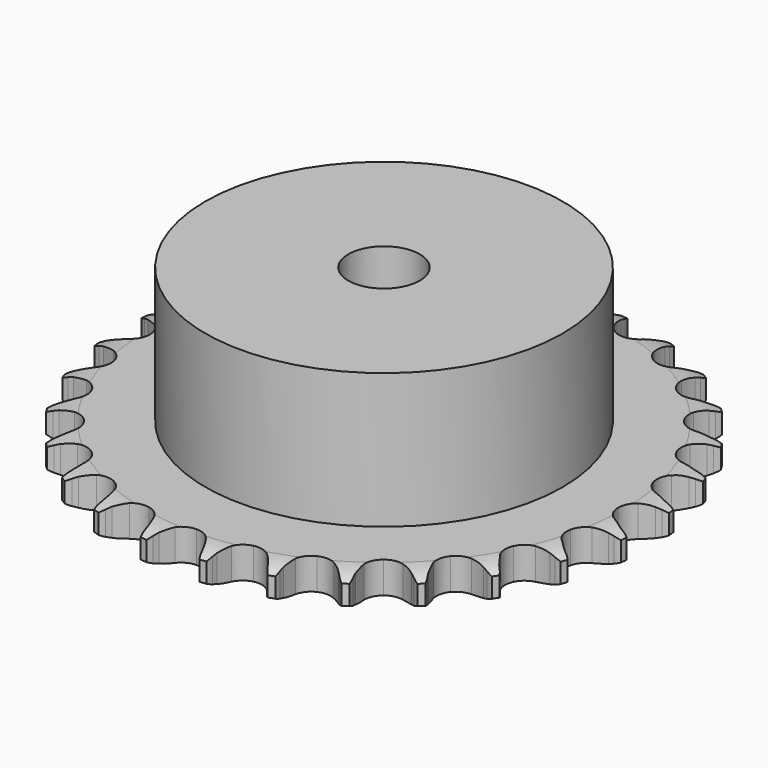
from build123d import *

# Parameters (mm, degrees)
PAD_DEPTH         = 5.3
SKETCH001_R       = 30
PAD001_DEPTH      = 28
SKETCH002_R       = 6
POCKET_DEPTH      = 0.001
POCKET_DEPTH_BACK = 28.001


with BuildPart() as part:
    # Sprocket → Pad (new body)
    with BuildSketch(Plane.XY):
        with BuildLine():
            ThreePointArc((-5.081632, 45.100731), (-4.462733, 44.305911), (-4.009624, 43.406207))
            Line((-4.009624, 43.406207), (-3.700215, 42.606137))
            ThreePointArc((-3.700215, 42.606137), (-3.207694, 41.556761), (-2.573921, 40.586143))
            ThreePointArc((-2.573921, 40.586143), (-1.437158, 39.644298), (0, 39.306838))
            ThreePointArc((0, 39.306838), (1.437158, 39.644298), (2.573921, 40.586143))
            ThreePointArc((2.573921, 40.586143), (3.207694, 41.556761), (3.700215, 42.606137))
            Line((3.700215, 42.606137), (4.009624, 43.406207))
            ThreePointArc((4.009624, 43.406207), (4.462733, 44.305911), (5.081632, 45.100731))
            ThreePointArc((5.081632, 45.100731), (5.508149, 44.188121), (5.749696, 43.210148))
            Line((5.749696, 43.210148), (5.873315, 42.361288))
            ThreePointArc((5.873315, 42.361288), (6.119979, 41.228626), (6.521879, 40.141315))
            ThreePointArc((6.521879, 40.141315), (7.420561, 38.970131), (8.746594, 38.321333))
            ThreePointArc((8.746594, 38.321333), (10.222812, 38.330535), (11.540654, 38.995813))
            Line((11.540654, 38.995813), (13.0882, 40.714537))
            ThreePointArc((13.0882, 40.714537), (13.318858, 41.076312), (13.567884, 41.425697))
            ThreePointArc((13.567884, 41.425697), (14.209836, 42.202017), (14.990082, 42.839192))
            ThreePointArc((14.990082, 42.839192), (15.20283, 41.854554), (15.220701, 40.847352))
            Line((15.220701, 40.847352), (15.152332, 39.992266))
            ThreePointArc((15.152332, 39.992266), (15.140771, 38.833114), (15.290645, 37.683634))
            ThreePointArc((15.290645, 37.683634), (15.906182, 36.341838), (17.054598, 35.414237))
            ThreePointArc((17.054598, 35.414237), (18.495851, 35.094719), (19.92869, 35.450069))
            Line((19.92869, 35.450069), (21.819889, 36.78134))
            ThreePointArc((21.819889, 36.78134), (22.125266, 37.082718), (22.445794, 37.36793))
            ThreePointArc((22.445794, 37.36793), (23.244398, 37.981939), (24.146866, 38.429517))
            ThreePointArc((24.146866, 38.429517), (24.135178, 37.422225), (23.928477, 36.436299))
            Line((23.928477, 36.436299), (23.671548, 35.617866))
            ThreePointArc((23.671548, 35.617866), (23.402341, 34.490349), (23.292674, 33.336338))
            ThreePointArc((23.292674, 33.336338), (23.5942, 31.891214), (24.507413, 30.731323))
            ThreePointArc((24.507413, 30.731323), (25.841431, 30.099107), (27.317419, 30.126711))
            Line((27.317419, 30.126711), (29.457437, 31.003773))
            ThreePointArc((29.457437, 31.003773), (29.822221, 31.229642), (30.198177, 31.43638))
            ThreePointArc((30.198177, 31.43638), (31.113389, 31.857287), (32.092826, 32.092826))
            ThreePointArc((32.092826, 32.092826), (31.857287, 31.113389), (31.43638, 30.198177))
            Line((31.43638, 30.198177), (31.003773, 29.457437))
            ThreePointArc((31.003773, 29.457437), (30.49042, 28.418093), (30.126711, 27.317419))
            ThreePointArc((30.126711, 27.317419), (30.099107, 25.841431), (30.731323, 24.507413))
            ThreePointArc((30.731323, 24.507413), (31.891214, 23.5942), (33.336338, 23.292674))
            Line((33.336338, 23.292674), (35.617866, 23.671548))
            ThreePointArc((35.617866, 23.671548), (36.023764, 23.810581), (36.436299, 23.928477))
            ThreePointArc((36.436299, 23.928477), (37.422225, 24.135178), (38.429517, 24.146866))
            ThreePointArc((38.429517, 24.146866), (37.981939, 23.244398), (37.36793, 22.445794))
            Line((37.36793, 22.445794), (36.78134, 21.819889))
            ThreePointArc((36.78134, 21.819889), (36.049582, 20.920835), (35.450069, 19.92869))
            ThreePointArc((35.450069, 19.92869), (35.094719, 18.495851), (35.414237, 17.054598))
            ThreePointArc((35.414237, 17.054598), (36.341838, 15.906182), (37.683634, 15.290645))
            Line((37.683634, 15.290645), (39.992266, 15.152332))
            ThreePointArc((39.992266, 15.152332), (40.418926, 15.197559), (40.847352, 15.220701))
            ThreePointArc((40.847352, 15.220701), (41.854554, 15.20283), (42.839192, 14.990082))
            ThreePointArc((42.839192, 14.990082), (42.202017, 14.209836), (41.425697, 13.567884))
            Line((41.425697, 13.567884), (40.714537, 13.0882))
            ThreePointArc((40.714537, 13.0882), (39.801067, 12.37452), (38.995813, 11.540654))
            ThreePointArc((38.995813, 11.540654), (38.330535, 10.222812), (38.321333, 8.746594))
            ThreePointArc((38.321333, 8.746594), (38.970131, 7.420561), (40.141315, 6.521879))
            Line((40.141315, 6.521879), (42.361288, 5.873315))
            ThreePointArc((42.361288, 5.873315), (42.787314, 5.822467), (43.210148, 5.749696))
            ThreePointArc((43.210148, 5.749696), (44.188121, 5.508149), (45.100731, 5.081632))
            ThreePointArc((45.100731, 5.081632), (44.305911, 4.462733), (43.406207, 4.009624))
            Line((43.406207, 4.009624), (42.606137, 3.700215))
            ThreePointArc((42.606137, 3.700215), (41.556761, 3.207694), (40.586143, 2.573921))
            ThreePointArc((40.586143, 2.573921), (39.644298, 1.437158), (39.306838, 0))
            ThreePointArc((39.306838, 0), (39.644298, -1.437158), (40.586143, -2.573921))
            Line((40.586143, -2.573921), (42.606137, -3.700215))
            ThreePointArc((42.606137, -3.700215), (43.010168, -3.844588), (43.406207, -4.009624))
            ThreePointArc((43.406207, -4.009624), (44.305911, -4.462733), (45.100731, -5.081632))
            ThreePointArc((45.100731, -5.081632), (44.188121, -5.508149), (43.210148, -5.749696))
            Line((43.210148, -5.749696), (42.361288, -5.873315))
            ThreePointArc((42.361288, -5.873315), (41.228626, -6.119979), (40.141315, -6.521879))
            ThreePointArc((40.141315, -6.521879), (38.970131, -7.420561), (38.321333, -8.746594))
            ThreePointArc((38.321333, -8.746594), (38.330535, -10.222812), (38.995813, -11.540654))
            Line((38.995813, -11.540654), (40.714537, -13.0882))
            ThreePointArc((40.714537, -13.0882), (41.076312, -13.318858), (41.425697, -13.567884))
            ThreePointArc((41.425697, -13.567884), (42.202017, -14.209836), (42.839192, -14.990082))
            ThreePointArc((42.839192, -14.990082), (41.854554, -15.20283), (40.847352, -15.220701))
            Line((40.847352, -15.220701), (39.992266, -15.152332))
            ThreePointArc((39.992266, -15.152332), (38.833114, -15.140771), (37.683634, -15.290645))
            ThreePointArc((37.683634, -15.290645), (36.341838, -15.906182), (35.414237, -17.054598))
            ThreePointArc((35.414237, -17.054598), (35.094719, -18.495851), (35.450069, -19.92869))
            Line((35.450069, -19.92869), (36.78134, -21.819889))
            ThreePointArc((36.78134, -21.819889), (37.082718, -22.125266), (37.36793, -22.445794))
            ThreePointArc((37.36793, -22.445794), (37.981939, -23.244398), (38.429517, -24.146866))
            ThreePointArc((38.429517, -24.146866), (37.422225, -24.135178), (36.436299, -23.928477))
            Line((36.436299, -23.928477), (35.617866, -23.671548))
            ThreePointArc((35.617866, -23.671548), (34.490349, -23.402341), (33.336338, -23.292674))
            ThreePointArc((33.336338, -23.292674), (31.891214, -23.5942), (30.731323, -24.507413))
            ThreePointArc((30.731323, -24.507413), (30.099107, -25.841431), (30.126711, -27.317419))
            Line((30.126711, -27.317419), (31.003773, -29.457437))
            ThreePointArc((31.003773, -29.457437), (31.229642, -29.822221), (31.43638, -30.198177))
            ThreePointArc((31.43638, -30.198177), (31.857287, -31.113389), (32.092826, -32.092826))
            ThreePointArc((32.092826, -32.092826), (31.113389, -31.857287), (30.198177, -31.43638))
            Line((30.198177, -31.43638), (29.457437, -31.003773))
            ThreePointArc((29.457437, -31.003773), (28.418093, -30.49042), (27.317419, -30.126711))
            ThreePointArc((27.317419, -30.126711), (25.841431, -30.099107), (24.507413, -30.731323))
            ThreePointArc((24.507413, -30.731323), (23.5942, -31.891214), (23.292674, -33.336338))
            Line((23.292674, -33.336338), (23.671548, -35.617866))
            ThreePointArc((23.671548, -35.617866), (23.810581, -36.023764), (23.928477, -36.436299))
            ThreePointArc((23.928477, -36.436299), (24.135178, -37.422225), (24.146866, -38.429517))
            ThreePointArc((24.146866, -38.429517), (23.244398, -37.981939), (22.445794, -37.36793))
            Line((22.445794, -37.36793), (21.819889, -36.78134))
            ThreePointArc((21.819889, -36.78134), (20.920835, -36.049582), (19.92869, -35.450069))
            ThreePointArc((19.92869, -35.450069), (18.495851, -35.094719), (17.054598, -35.414237))
            ThreePointArc((17.054598, -35.414237), (15.906182, -36.341838), (15.290645, -37.683634))
            Line((15.290645, -37.683634), (15.152332, -39.992266))
            ThreePointArc((15.152332, -39.992266), (15.197559, -40.418926), (15.220701, -40.847352))
            ThreePointArc((15.220701, -40.847352), (15.20283, -41.854554), (14.990082, -42.839192))
            ThreePointArc((14.990082, -42.839192), (14.209836, -42.202017), (13.567884, -41.425697))
            Line((13.567884, -41.425697), (13.0882, -40.714537))
            ThreePointArc((13.0882, -40.714537), (12.37452, -39.801067), (11.540654, -38.995813))
            ThreePointArc((11.540654, -38.995813), (10.222812, -38.330535), (8.746594, -38.321333))
            ThreePointArc((8.746594, -38.321333), (7.420561, -38.970131), (6.521879, -40.141315))
            Line((6.521879, -40.141315), (5.873315, -42.361288))
            ThreePointArc((5.873315, -42.361288), (5.822467, -42.787314), (5.749696, -43.210148))
            ThreePointArc((5.749696, -43.210148), (5.508149, -44.188121), (5.081632, -45.100731))
            ThreePointArc((5.081632, -45.100731), (4.462733, -44.305911), (4.009624, -43.406207))
            Line((4.009624, -43.406207), (3.700215, -42.606137))
            ThreePointArc((3.700215, -42.606137), (3.207694, -41.556761), (2.573921, -40.586143))
            ThreePointArc((2.573921, -40.586143), (1.437158, -39.644298), (0, -39.306838))
            ThreePointArc((0, -39.306838), (-1.437158, -39.644298), (-2.573921, -40.586143))
            Line((-2.573921, -40.586143), (-3.700215, -42.606137))
            ThreePointArc((-3.700215, -42.606137), (-3.844588, -43.010168), (-4.009624, -43.406207))
            ThreePointArc((-4.009624, -43.406207), (-4.462733, -44.305911), (-5.081632, -45.100731))
            ThreePointArc((-5.081632, -45.100731), (-5.508149, -44.188121), (-5.749696, -43.210148))
            Line((-5.749696, -43.210148), (-5.873315, -42.361288))
            ThreePointArc((-5.873315, -42.361288), (-6.119979, -41.228626), (-6.521879, -40.141315))
            ThreePointArc((-6.521879, -40.141315), (-7.420561, -38.970131), (-8.746594, -38.321333))
            ThreePointArc((-8.746594, -38.321333), (-10.222812, -38.330535), (-11.540654, -38.995813))
            Line((-11.540654, -38.995813), (-13.0882, -40.714537))
            ThreePointArc((-13.0882, -40.714537), (-13.318858, -41.076312), (-13.567884, -41.425697))
            ThreePointArc((-13.567884, -41.425697), (-14.209836, -42.202017), (-14.990082, -42.839192))
            ThreePointArc((-14.990082, -42.839192), (-15.20283, -41.854554), (-15.220701, -40.847352))
            Line((-15.220701, -40.847352), (-15.152332, -39.992266))
            ThreePointArc((-15.152332, -39.992266), (-15.140771, -38.833114), (-15.290645, -37.683634))
            ThreePointArc((-15.290645, -37.683634), (-15.906182, -36.341838), (-17.054598, -35.414237))
            ThreePointArc((-17.054598, -35.414237), (-18.495851, -35.094719), (-19.92869, -35.450069))
            Line((-19.92869, -35.450069), (-21.819889, -36.78134))
            ThreePointArc((-21.819889, -36.78134), (-22.125266, -37.082718), (-22.445794, -37.36793))
            ThreePointArc((-22.445794, -37.36793), (-23.244398, -37.981939), (-24.146866, -38.429517))
            ThreePointArc((-24.146866, -38.429517), (-24.135178, -37.422225), (-23.928477, -36.436299))
            Line((-23.928477, -36.436299), (-23.671548, -35.617866))
            ThreePointArc((-23.671548, -35.617866), (-23.402341, -34.490349), (-23.292674, -33.336338))
            ThreePointArc((-23.292674, -33.336338), (-23.5942, -31.891214), (-24.507413, -30.731323))
            ThreePointArc((-24.507413, -30.731323), (-25.841431, -30.099107), (-27.317419, -30.126711))
            Line((-27.317419, -30.126711), (-29.457437, -31.003773))
            ThreePointArc((-29.457437, -31.003773), (-29.822221, -31.229642), (-30.198177, -31.43638))
            ThreePointArc((-30.198177, -31.43638), (-31.113389, -31.857287), (-32.092826, -32.092826))
            ThreePointArc((-32.092826, -32.092826), (-31.857287, -31.113389), (-31.43638, -30.198177))
            Line((-31.43638, -30.198177), (-31.003773, -29.457437))
            ThreePointArc((-31.003773, -29.457437), (-30.49042, -28.418093), (-30.126711, -27.317419))
            ThreePointArc((-30.126711, -27.317419), (-30.099107, -25.841431), (-30.731323, -24.507413))
            ThreePointArc((-30.731323, -24.507413), (-31.891214, -23.5942), (-33.336338, -23.292674))
            Line((-33.336338, -23.292674), (-35.617866, -23.671548))
            ThreePointArc((-35.617866, -23.671548), (-36.023764, -23.810581), (-36.436299, -23.928477))
            ThreePointArc((-36.436299, -23.928477), (-37.422225, -24.135178), (-38.429517, -24.146866))
            ThreePointArc((-38.429517, -24.146866), (-37.981939, -23.244398), (-37.36793, -22.445794))
            Line((-37.36793, -22.445794), (-36.78134, -21.819889))
            ThreePointArc((-36.78134, -21.819889), (-36.049582, -20.920835), (-35.450069, -19.92869))
            ThreePointArc((-35.450069, -19.92869), (-35.094719, -18.495851), (-35.414237, -17.054598))
            ThreePointArc((-35.414237, -17.054598), (-36.341838, -15.906182), (-37.683634, -15.290645))
            Line((-37.683634, -15.290645), (-39.992266, -15.152332))
            ThreePointArc((-39.992266, -15.152332), (-40.418926, -15.197559), (-40.847352, -15.220701))
            ThreePointArc((-40.847352, -15.220701), (-41.854554, -15.20283), (-42.839192, -14.990082))
            ThreePointArc((-42.839192, -14.990082), (-42.202017, -14.209836), (-41.425697, -13.567884))
            Line((-41.425697, -13.567884), (-40.714537, -13.0882))
            ThreePointArc((-40.714537, -13.0882), (-39.801067, -12.37452), (-38.995813, -11.540654))
            ThreePointArc((-38.995813, -11.540654), (-38.330535, -10.222812), (-38.321333, -8.746594))
            ThreePointArc((-38.321333, -8.746594), (-38.970131, -7.420561), (-40.141315, -6.521879))
            Line((-40.141315, -6.521879), (-42.361288, -5.873315))
            ThreePointArc((-42.361288, -5.873315), (-42.787314, -5.822467), (-43.210148, -5.749696))
            ThreePointArc((-43.210148, -5.749696), (-44.188121, -5.508149), (-45.100731, -5.081632))
            ThreePointArc((-45.100731, -5.081632), (-44.305911, -4.462733), (-43.406207, -4.009624))
            Line((-43.406207, -4.009624), (-42.606137, -3.700215))
            ThreePointArc((-42.606137, -3.700215), (-41.556761, -3.207694), (-40.586143, -2.573921))
            ThreePointArc((-40.586143, -2.573921), (-39.644298, -1.437158), (-39.306838, 0))
            ThreePointArc((-39.306838, 0), (-39.644298, 1.437158), (-40.586143, 2.573921))
            Line((-40.586143, 2.573921), (-42.606137, 3.700215))
            ThreePointArc((-42.606137, 3.700215), (-43.010168, 3.844588), (-43.406207, 4.009624))
            ThreePointArc((-43.406207, 4.009624), (-44.305911, 4.462733), (-45.100731, 5.081632))
            ThreePointArc((-45.100731, 5.081632), (-44.188121, 5.508149), (-43.210148, 5.749696))
            Line((-43.210148, 5.749696), (-42.361288, 5.873315))
            ThreePointArc((-42.361288, 5.873315), (-41.228626, 6.119979), (-40.141315, 6.521879))
            ThreePointArc((-40.141315, 6.521879), (-38.970131, 7.420561), (-38.321333, 8.746594))
            ThreePointArc((-38.321333, 8.746594), (-38.330535, 10.222812), (-38.995813, 11.540654))
            Line((-38.995813, 11.540654), (-40.714537, 13.0882))
            ThreePointArc((-40.714537, 13.0882), (-41.076312, 13.318858), (-41.425697, 13.567884))
            ThreePointArc((-41.425697, 13.567884), (-42.202017, 14.209836), (-42.839192, 14.990082))
            ThreePointArc((-42.839192, 14.990082), (-41.854554, 15.20283), (-40.847352, 15.220701))
            Line((-40.847352, 15.220701), (-39.992266, 15.152332))
            ThreePointArc((-39.992266, 15.152332), (-38.833114, 15.140771), (-37.683634, 15.290645))
            ThreePointArc((-37.683634, 15.290645), (-36.341838, 15.906182), (-35.414237, 17.054598))
            ThreePointArc((-35.414237, 17.054598), (-35.094719, 18.495851), (-35.450069, 19.92869))
            Line((-35.450069, 19.92869), (-36.78134, 21.819889))
            ThreePointArc((-36.78134, 21.819889), (-37.082718, 22.125266), (-37.36793, 22.445794))
            ThreePointArc((-37.36793, 22.445794), (-37.981939, 23.244398), (-38.429517, 24.146866))
            ThreePointArc((-38.429517, 24.146866), (-37.422225, 24.135178), (-36.436299, 23.928477))
            Line((-36.436299, 23.928477), (-35.617866, 23.671548))
            ThreePointArc((-35.617866, 23.671548), (-34.490349, 23.402341), (-33.336338, 23.292674))
            ThreePointArc((-33.336338, 23.292674), (-31.891214, 23.5942), (-30.731323, 24.507413))
            ThreePointArc((-30.731323, 24.507413), (-30.099107, 25.841431), (-30.126711, 27.317419))
            Line((-30.126711, 27.317419), (-31.003773, 29.457437))
            ThreePointArc((-31.003773, 29.457437), (-31.229642, 29.822221), (-31.43638, 30.198177))
            ThreePointArc((-31.43638, 30.198177), (-31.857287, 31.113389), (-32.092826, 32.092826))
            ThreePointArc((-32.092826, 32.092826), (-31.113389, 31.857287), (-30.198177, 31.43638))
            Line((-30.198177, 31.43638), (-29.457437, 31.003773))
            ThreePointArc((-29.457437, 31.003773), (-28.418093, 30.49042), (-27.317419, 30.126711))
            ThreePointArc((-27.317419, 30.126711), (-25.841431, 30.099107), (-24.507413, 30.731323))
            ThreePointArc((-24.507413, 30.731323), (-23.5942, 31.891214), (-23.292674, 33.336338))
            Line((-23.292674, 33.336338), (-23.671548, 35.617866))
            ThreePointArc((-23.671548, 35.617866), (-23.810581, 36.023764), (-23.928477, 36.436299))
            ThreePointArc((-23.928477, 36.436299), (-24.135178, 37.422225), (-24.146866, 38.429517))
            ThreePointArc((-24.146866, 38.429517), (-23.244398, 37.981939), (-22.445794, 37.36793))
            Line((-22.445794, 37.36793), (-21.819889, 36.78134))
            ThreePointArc((-21.819889, 36.78134), (-20.920835, 36.049582), (-19.92869, 35.450069))
            ThreePointArc((-19.92869, 35.450069), (-18.495851, 35.094719), (-17.054598, 35.414237))
            ThreePointArc((-17.054598, 35.414237), (-15.906182, 36.341838), (-15.290645, 37.683634))
            Line((-15.290645, 37.683634), (-15.152332, 39.992266))
            ThreePointArc((-15.152332, 39.992266), (-15.197559, 40.418926), (-15.220701, 40.847352))
            ThreePointArc((-15.220701, 40.847352), (-15.20283, 41.854554), (-14.990082, 42.839192))
            ThreePointArc((-14.990082, 42.839192), (-14.209836, 42.202017), (-13.567884, 41.425697))
            Line((-13.567884, 41.425697), (-13.0882, 40.714537))
            ThreePointArc((-13.0882, 40.714537), (-12.37452, 39.801067), (-11.540654, 38.995813))
            ThreePointArc((-11.540654, 38.995813), (-10.222812, 38.330535), (-8.746594, 38.321333))
            ThreePointArc((-8.746594, 38.321333), (-7.420561, 38.970131), (-6.521879, 40.141315))
            Line((-6.521879, 40.141315), (-5.873315, 42.361288))
            ThreePointArc((-5.873315, 42.361288), (-5.822467, 42.787314), (-5.749696, 43.210148))
            ThreePointArc((-5.749696, 43.210148), (-5.508149, 44.188121), (-5.081632, 45.100731))
        make_face()
    extrude(amount=PAD_DEPTH)

    # Sketch → Groove (revolve, cut)
    with BuildSketch(Plane.XZ):
        with BuildLine():
            Line((40.141101, 0), (44.5, 0))
            Line((48.858899, 0), (44.5, 0))
            Line((48.858899, 5.3), (48.858899, 0))
            Line((44.5, 5.3), (48.858899, 5.3))
            Line((40.141101, 5.3), (44.5, 5.3))
            ThreePointArc((44.5, 4.3), (42.377169, 5.046794), (40.141101, 5.3))
            Line((44.5, 1), (44.5, 4.3))
            ThreePointArc((40.141101, 0), (42.377169, 0.253206), (44.5, 1))
        make_face()
    revolve(axis=Axis((0, 0, 0), (0, 0, 1)), mode=Mode.SUBTRACT)

    # Sketch001 → Pad001 (join)
    with BuildSketch(Plane.XY):
        Circle(SKETCH001_R)
    extrude(amount=PAD001_DEPTH)

    # Sketch002 → Pocket (cut, two sides)
    with BuildSketch(Plane.XY) as pocket_sk:
        Circle(SKETCH002_R)
    extrude(amount=-POCKET_DEPTH, mode=Mode.SUBTRACT)
    extrude(pocket_sk.sketch, amount=POCKET_DEPTH_BACK, mode=Mode.SUBTRACT)


solid = part.part
